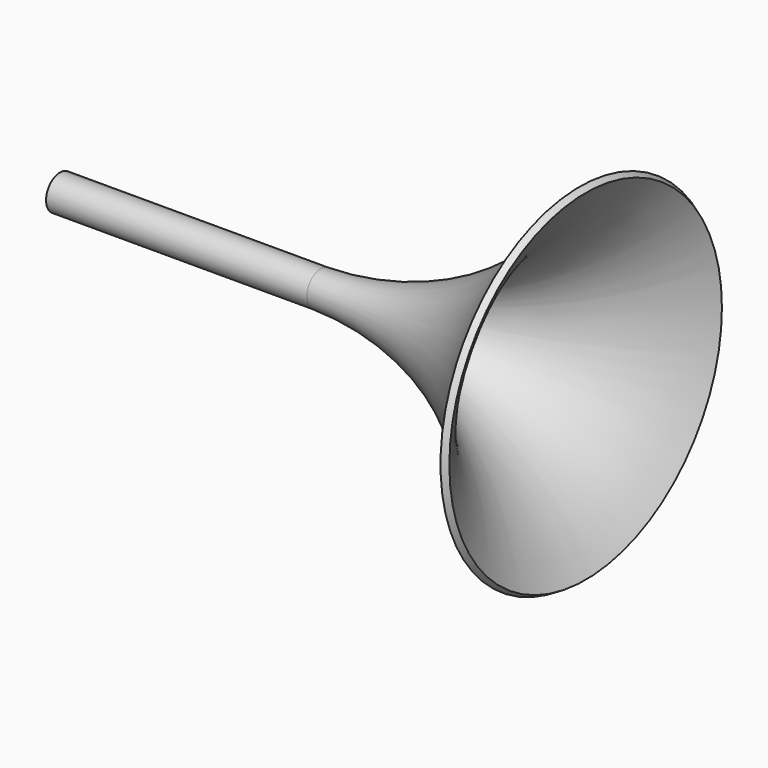
from build123d import *


with BuildPart() as f1:
    # F0 (on Top) → F1 (revolve)
    with BuildSketch(Plane.XY):
        with BuildLine():
            Line((0, 5), (-75, 5))
            Line((-75, 5), (-75, 3))
            Line((-75, 3), (0.013223, 3))
            ThreePointArc((0.013223, 3), (44.345082, 15.661322), (76.190889, 49))
            Line((76.190889, 49), (74.458042, 50))
            ThreePointArc((74.458042, 50), (43.339057, 17.390192), (0, 5))
        make_face()
    revolve(axis=Axis((-5.109195, 0, 0), (1, 0, 0)))


solid = f1.part
